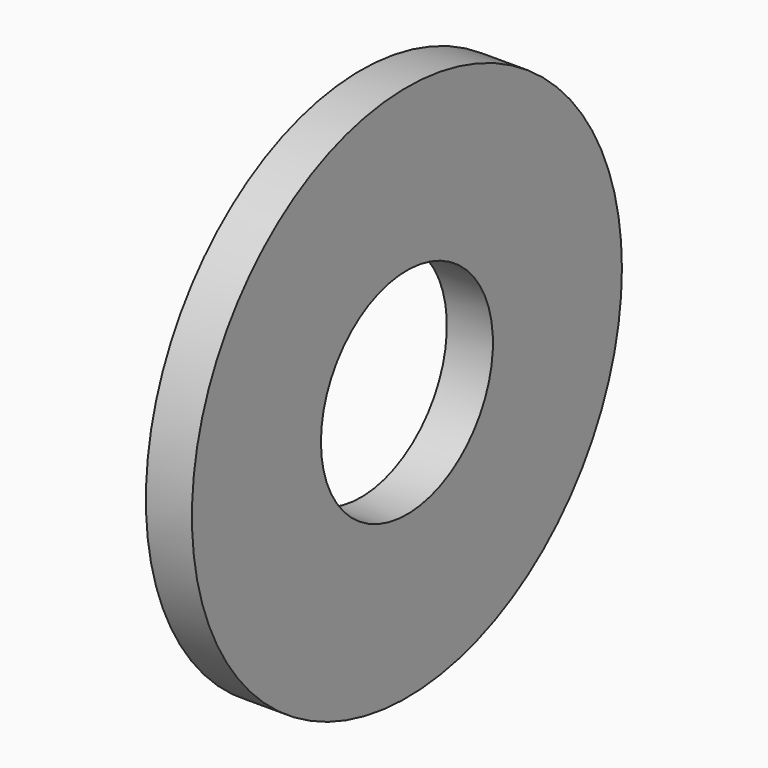
from build123d import *

# Parameters (mm, degrees)
F0_R     = 8.89
F1_DEPTH = 1.524
F3_D     = 7.112


with BuildPart() as f1:
    # F0 (on Right) → F1 (new body)
    with BuildSketch(Plane.YZ):
        Circle(F0_R)
    extrude(amount=F1_DEPTH)

    # F3 (through all)
    with Locations(Plane.YZ.offset(1.524)):
        with Locations((0, 0)):
            Hole(F3_D / 2)


solid = f1.part
